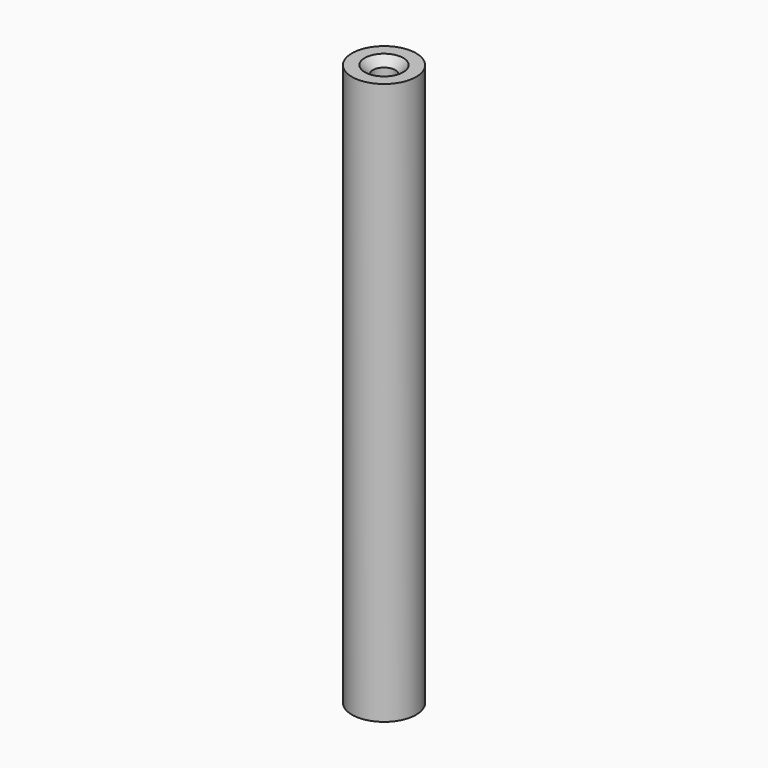
from build123d import *

# Parameters (mm, degrees)
SKETCH_R     = 4
SKETCH_R_2   = 1.4
PAD_DEPTH    = 70
CHAMFER_SIZE = 1


with BuildPart() as part:
    # Sketch → Pad (new body)
    with BuildSketch(Plane.XY):
        Circle(SKETCH_R)
        Circle(SKETCH_R_2, mode=Mode.SUBTRACT)
    extrude(amount=PAD_DEPTH)

    # Chamfer
    chamfer_edges = [part.edges().sort_by_distance(p)[0] for p in [
        (-1.4, 0, 70),
        (-1.4, 0, 0),
    ]]
    chamfer(chamfer_edges, length=CHAMFER_SIZE)


solid = part.part
